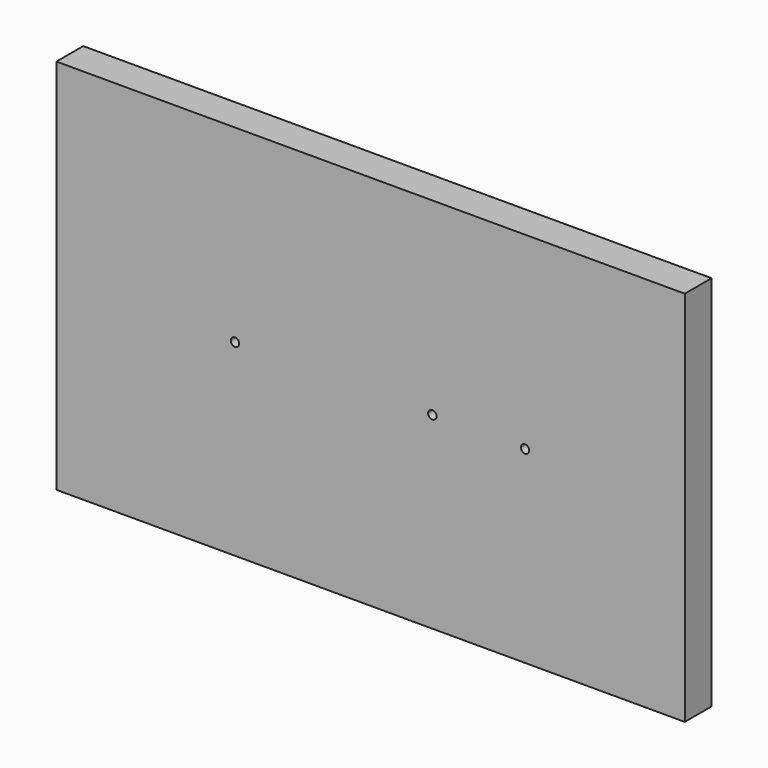
from build123d import *

# Parameters (mm, degrees)
F1_DEPTH = 5.08


with BuildPart() as f1:
    # F0 (on Front) → F1 (new body)
    with BuildSketch(Plane.XZ):
        with BuildLine():
            Line((-22.6528607666, 33.7195000469), (-48.0528607666, 33.7195000469))
            Line((-48.0528607666, 33.7195000469), (-48.0528607666, 13.0820000469))
            Line((-48.0528607666, 13.0820000469), (-48.0528607666, 5.0553071935))
            Line((-48.0528607666, 5.0553071935), (-21.6236447839, 5.0800557204))
            ThreePointArc((-21.6236447839, 5.0800557204), (-20.9880244621, 5.7168675577), (-20.3512126248, 5.081247236))
            Line((-20.3512126248, 5.081247236), (8.2869998682, 5.1080642847))
            ThreePointArc((8.2869998682, 5.1080642847), (8.9226201899, 5.744876122), (9.5594320273, 5.1092558002))
            Line((9.5594320273, 5.1092558002), (22.3445299864, 5.1212278671))
            ThreePointArc((22.3445299864, 5.1212278671), (22.9801503081, 5.7580397044), (23.6169621455, 5.1224193826))
            Line((23.6169621455, 5.1224193826), (47.1971392334, 5.1445000469))
            Line((47.1971392334, 5.1445000469), (47.1971392334, 33.7195000469))
            Line((47.1971392334, 33.7195000469), (20.2096392334, 33.7195000469))
            Line((20.2096392334, 33.7195000469), (5.9221392334, 33.7195000469))
            Line((5.9221392334, 33.7195000469), (-22.6528607666, 33.7195000469))
        make_face()
        with BuildLine():
            Line((-21.6236447839, 5.0800557204), (-48.0528607666, 5.0553071935))
            Line((-48.0528607666, 5.0553071935), (-48.0528607666, -1.2054999531))
            Line((-48.0528607666, -1.2054999531), (-48.0528607666, -23.4304999531))
            Line((-48.0528607666, -23.4304999531), (47.1971392334, -23.4304999531))
            Line((47.1971392334, -23.4304999531), (47.1971392334, 5.1445000469))
            Line((47.1971392334, 5.1445000469), (23.6169621455, 5.1224193826))
            ThreePointArc((23.6169621455, 5.1224193826), (23.6169623547, 5.1221215037), (23.6169624244, 5.1218236248))
            ThreePointArc((23.6169624244, 5.1218236248), (22.9810439448, 4.4856073361), (22.3445299864, 5.1212278671))
            Line((22.3445299864, 5.1212278671), (9.5594320273, 5.1092558002))
            ThreePointArc((9.5594320273, 5.1092558002), (9.5594322365, 5.1089579214), (9.5594323062, 5.1086600424))
            ThreePointArc((9.5594323062, 5.1086600424), (8.9235138266, 4.4724437537), (8.2869998682, 5.1080642847))
            Line((8.2869998682, 5.1080642847), (-20.3512126248, 5.081247236))
            ThreePointArc((-20.3512126248, 5.081247236), (-20.3512124156, 5.0809493571), (-20.3512123459, 5.0806514782))
            ThreePointArc((-20.3512123459, 5.0806514782), (-20.9871308254, 4.4444351895), (-21.6236447839, 5.0800557204))
        make_face()
    extrude(amount=F1_DEPTH)


solid = f1.part
